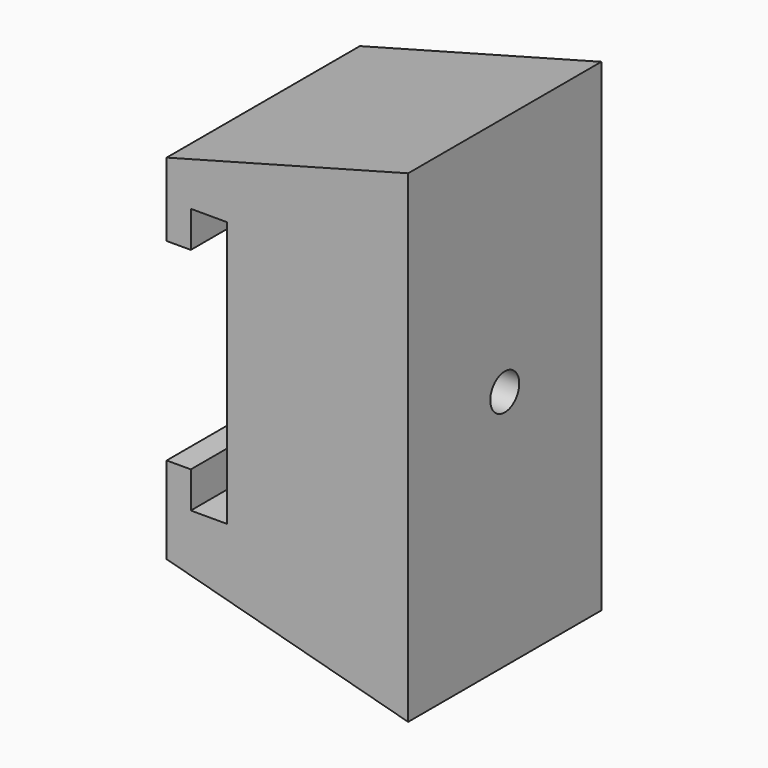
from build123d import *

# Parameters (mm, degrees)
F1_DEPTH = 12.7
F3_D     = 3.81


with BuildPart() as f1:
    # F0 (on Front) → F1 (new body, symmetric)
    with BuildSketch(Plane.XZ):
        Polygon((0, 27.94), (0, 0), (-3.81, 0), (-3.81, 3.81), (-6.35, 3.81), (-6.35, -5.334), (19.05, -12.139909), (19.05, 38.660091), (-6.35, 31.854181), (-6.35, 24.13), (-3.81, 24.13), (-3.81, 27.94), align=None)
    extrude(amount=F1_DEPTH, both=True)

    # F3 (through all)
    with Locations(Plane(origin=(0, 0, 0), x_dir=(0, -1, 0), z_dir=(-1, 0, 0))):
        with Locations((0, 13.260091)):
            Hole(F3_D / 2)


solid = f1.part
